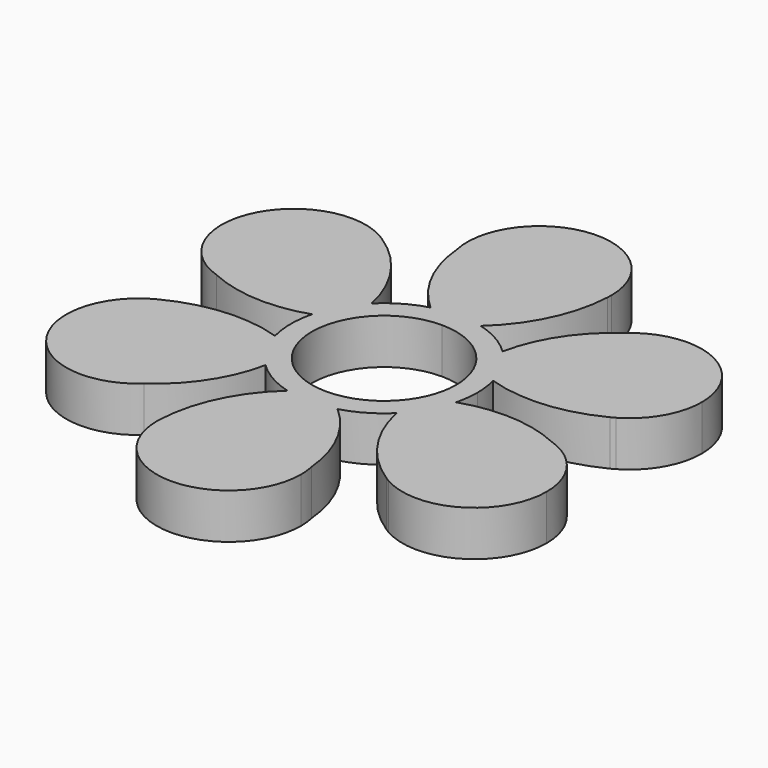
from build123d import *

# Parameters (mm, degrees)
F1_DEPTH = 7


with BuildPart() as f1:
    # F0 (on Top) → F1 (new body)
    with BuildSketch(Plane.XY):
        with BuildLine():
            ThreePointArc((9.6561832522, 5.575), (10.7700729631, 2.8858323529), (11.15, 0))
            ThreePointArc((11.15, 0), (10.7700729631, -2.8858323529), (9.6561832522, -5.575))
            ThreePointArc((9.6561832522, -5.575), (11.7583450993, -4.4386309052), (13.9764549062, -3.549581955))
            ThreePointArc((13.9764549062, -3.549581955), (14.308798821, -1.7886028346), (14.4201533903, 0))
            ThreePointArc((14.4201533903, 0), (14.3024193489, 1.8389194019), (13.9511397154, 3.6478109107))
            ThreePointArc((13.9511397154, 3.6478109107), (11.7522539794, 4.4968380812), (9.6561832522, 5.575))
        make_face()
        with BuildLine():
            ThreePointArc((10.0622555989, 10.3291740261), (9.7231396716, 7.9637101099), (9.6561832522, 5.575))
            ThreePointArc((9.6561832522, 5.575), (11.7522539794, 4.4968380812), (13.9511397154, 3.6478109107))
            ThreePointArc((13.9511397154, 3.6478109107), (12.4627822697, 7.2539562928), (10.0622555989, 10.3291740261))
        make_face()
        with BuildLine():
            ThreePointArc((0, 11.15), (5.575, 9.6561832522), (9.6561832522, 5.575))
            ThreePointArc((9.6561832522, 5.575), (9.7231396716, 7.9637101099), (10.0622555989, 10.3291740261))
            ThreePointArc((10.0622555989, 10.3291740261), (7.1661079009, 12.5135015624), (3.8164729409, 13.9059468606))
            ThreePointArc((3.8164729409, 13.9059468606), (1.9817509747, 12.4261695385), (0, 11.15))
        make_face()
        with BuildLine():
            ThreePointArc((10.1346667746, -10.25813595), (9.7705030047, -7.9293314573), (9.6561832522, -5.575))
            ThreePointArc((9.6561832522, -5.575), (5.575, -9.6561832522), (0, -11.15))
            ThreePointArc((0, -11.15), (2.0352054277, -12.4023410151), (3.9141993072, -13.8787559811))
            ThreePointArc((3.9141993072, -13.8787559811), (7.2539562928, -12.4627822697), (10.1346667746, -10.25813595))
        make_face()
        with BuildLine():
            ThreePointArc((13.9764549062, -3.549581955), (11.7583450993, -4.4386309052), (9.6561832522, -5.575))
            ThreePointArc((9.6561832522, -5.575), (9.7705030047, -7.9293314573), (10.1346667746, -10.25813595))
            ThreePointArc((10.1346667746, -10.25813595), (12.5135015624, -7.1661079009), (13.9764549062, -3.549581955))
        make_face()
        with BuildLine():
            ThreePointArc((-3.9141993072, 13.8787559811), (-2.0352054277, 12.4023410151), (0, 11.15))
            ThreePointArc((0, 11.15), (1.9817509747, 12.4261695385), (3.8164729409, 13.9059468606))
            ThreePointArc((3.8164729409, 13.9059468606), (-0.0507192927, 14.4200641938), (-3.9141993072, 13.8787559811))
        make_face()
        with BuildLine():
            ThreePointArc((-9.6561832522, 5.575), (-5.575, 9.6561832522), (0, 11.15))
            ThreePointArc((0, 11.15), (-2.0352054277, 12.4023410151), (-3.9141993072, 13.8787559811))
            ThreePointArc((-3.9141993072, 13.8787559811), (-7.2539562928, 12.4627822697), (-10.1346667746, 10.25813595))
            ThreePointArc((-10.1346667746, 10.25813595), (-9.7705030047, 7.9293314573), (-9.6561832522, 5.575))
        make_face()
        with BuildLine():
            ThreePointArc((10.0622555989, 10.3291740261), (12.4627822697, 7.2539562928), (13.9511397154, 3.6478109107))
            ThreePointArc((13.9511397154, 3.6478109107), (22.5646732179, 2.6278419368), (30.9082990141, 4.9979062145))
            ThreePointArc((30.9082990141, 4.9979062145), (16.7608876912, 8.7297196525), (18.4895315816, 23.2585691931))
            ThreePointArc((18.4895315816, 23.2585691931), (13.039109397, 17.5999976189), (10.0622555989, 10.3291740261))
        make_face()
        with BuildLine():
            ThreePointArc((-3.8164729409, -13.9059468606), (-1.9817509747, -12.4261695385), (0, -11.15))
            ThreePointArc((0, -11.15), (-5.575, -9.6561832522), (-9.6561832522, -5.575))
            ThreePointArc((-9.6561832522, -5.575), (-9.7231396716, -7.9637101099), (-10.0622555989, -10.3291740261))
            ThreePointArc((-10.0622555989, -10.3291740261), (-7.1661079009, -12.5135015624), (-3.8164729409, -13.9059468606))
        make_face()
        with BuildLine():
            ThreePointArc((3.9141993072, -13.8787559811), (2.0352054277, -12.4023410151), (0, -11.15))
            ThreePointArc((0, -11.15), (-1.9817509747, -12.4261695385), (-3.8164729409, -13.9059468606))
            ThreePointArc((-3.8164729409, -13.9059468606), (0.0507192927, -14.4200641938), (3.9141993072, -13.8787559811))
        make_face()
        with BuildLine():
            ThreePointArc((13.9764549062, -3.549581955), (12.5135015624, -7.1661079009), (10.1346667746, -10.25813595))
            ThreePointArc((10.1346667746, -10.25813595), (13.5581144833, -18.2276592665), (19.7824632545, -24.2684190267))
            ThreePointArc((19.7824632545, -24.2684190267), (15.9406028326, -10.1504947043), (29.3872775678, -4.3831194572))
            ThreePointArc((29.3872775678, -4.3831194572), (21.761599743, -2.4922011711), (13.9764549062, -3.549581955))
        make_face()
        with BuildLine():
            ThreePointArc((-13.9764549062, 3.549581955), (-11.7583450993, 4.4386309052), (-9.6561832522, 5.575))
            ThreePointArc((-9.6561832522, 5.575), (-9.7705030047, 7.9293314573), (-10.1346667746, 10.25813595))
            ThreePointArc((-10.1346667746, 10.25813595), (-12.5135015624, 7.1661079009), (-13.9764549062, 3.549581955))
        make_face()
        with BuildLine():
            ThreePointArc((-9.6561832522, -5.575), (-11.15, 0), (-9.6561832522, 5.575))
            ThreePointArc((-9.6561832522, 5.575), (-11.7583450993, 4.4386309052), (-13.9764549062, 3.549581955))
            ThreePointArc((-13.9764549062, 3.549581955), (-14.4200641938, -0.0507192927), (-13.9511397154, -3.6478109107))
            ThreePointArc((-13.9511397154, -3.6478109107), (-11.7522539794, -4.4968380812), (-9.6561832522, -5.575))
        make_face()
        with BuildLine():
            ThreePointArc((-3.9141993072, 13.8787559811), (-0.0507192927, 14.4200641938), (3.8164729409, 13.9059468606))
            ThreePointArc((3.8164729409, 13.9059468606), (9.0065587346, 20.8555012032), (11.1258357595, 29.2663252412))
            ThreePointArc((11.1258357595, 29.2663252412), (0.8202848586, 18.8802143568), (-10.8977459861, 27.6416886503))
            ThreePointArc((-10.8977459861, 27.6416886503), (-8.722490346, 20.0921987899), (-3.9141993072, 13.8787559811))
        make_face()
        with BuildLine():
            ThreePointArc((31.5557621135, 5.3438167478), (31.2334654211, 5.168175766), (30.9082990141, 4.9979062145))
            ThreePointArc((30.9082990141, 4.9979062145), (31.2348780107, 5.1655317307), (31.5557621135, 5.3438167478))
        make_face()
        with BuildLine():
            ThreePointArc((18.4895315816, 23.2585691931), (16.7608876912, 8.7297196525), (30.9082990141, 4.9979062145))
            ThreePointArc((30.9082990141, 4.9979062145), (31.2334654211, 5.168175766), (31.5557621135, 5.3438167478))
            ThreePointArc((31.5557621135, 5.3438167478), (35.6369453657, 9.425), (37.1307621135, 15))
            ThreePointArc((37.1307621135, 15), (30.497136742, 25.1943543305), (18.4895315816, 23.2585691931))
        make_face()
        with BuildLine():
            ThreePointArc((-10.0622555989, -10.3291740261), (-9.7231396716, -7.9637101099), (-9.6561832522, -5.575))
            ThreePointArc((-9.6561832522, -5.575), (-11.7522539794, -4.4968380812), (-13.9511397154, -3.6478109107))
            ThreePointArc((-13.9511397154, -3.6478109107), (-12.4627822697, -7.2539562928), (-10.0622555989, -10.3291740261))
        make_face()
        with BuildLine():
            ThreePointArc((3.9141993072, -13.8787559811), (0.0507192927, -14.4200641938), (-3.8164729409, -13.9059468606))
            ThreePointArc((-3.8164729409, -13.9059468606), (-9.0065587346, -20.8555012032), (-11.1258357595, -29.2663252412))
            ThreePointArc((-11.1258357595, -29.2663252412), (-0.8202848586, -18.8802143568), (10.8977459861, -27.6416886503))
            ThreePointArc((10.8977459861, -27.6416886503), (8.722490346, -20.0921987899), (3.9141993072, -13.8787559811))
        make_face()
        with BuildLine():
            ThreePointArc((20.4057621135, -24.6561832522), (20.0925042151, -24.4648866199), (19.7824632545, -24.2684190267))
            ThreePointArc((19.7824632545, -24.2684190267), (20.0909207082, -24.467431976), (20.4057621135, -24.6561832522))
        make_face()
        with BuildLine():
            ThreePointArc((29.3872775678, -4.3831194572), (15.9406028326, -10.1504947043), (19.7824632545, -24.2684190267))
            ThreePointArc((19.7824632545, -24.2684190267), (20.0925042151, -24.4648866199), (20.4057621135, -24.6561832522))
            ThreePointArc((20.4057621135, -24.6561832522), (31.5557621135, -24.6561832522), (37.1307621135, -15))
            ThreePointArc((37.1307621135, -15), (34.98923444, -8.4296174889), (29.3872775678, -4.3831194572))
        make_face()
        with BuildLine():
            ThreePointArc((-13.9764549062, 3.549581955), (-12.5135015624, 7.1661079009), (-10.1346667746, 10.25813595))
            ThreePointArc((-10.1346667746, 10.25813595), (-13.5581144833, 18.2276592665), (-19.7824632545, 24.2684190267))
            ThreePointArc((-19.7824632545, 24.2684190267), (-16.1462938443, 20.2541158972), (-14.8307621135, 15))
            ThreePointArc((-14.8307621135, 15), (-19.4103796024, 5.9915276735), (-29.3872775678, 4.3831194572))
            ThreePointArc((-29.3872775678, 4.3831194572), (-21.761599743, 2.4922011711), (-13.9764549062, 3.549581955))
        make_face()
        with BuildLine():
            ThreePointArc((11.15, 30), (11.140961206, 29.6330623859), (11.1258357595, 29.2663252412))
            ThreePointArc((11.1258357595, 29.2663252412), (11.1439573025, 29.6329637068), (11.15, 30))
        make_face()
        with BuildLine():
            ThreePointArc((-10.8977459861, 27.6416886503), (0.8202848586, 18.8802143568), (11.1258357595, 29.2663252412))
            ThreePointArc((11.1258357595, 29.2663252412), (11.140961206, 29.6330623859), (11.15, 30))
            ThreePointArc((11.15, 30), (-1.185882004, 41.0867571396), (-10.8977459861, 27.6416886503))
        make_face()
        with BuildLine():
            ThreePointArc((-10.0622555989, -10.3291740261), (-12.4627822697, -7.2539562928), (-13.9511397154, -3.6478109107))
            ThreePointArc((-13.9511397154, -3.6478109107), (-22.5646732179, -2.6278419368), (-30.9082990141, -4.9979062145))
            ThreePointArc((-30.9082990141, -4.9979062145), (-20.0909207082, -5.532568024), (-14.8307621135, -15))
            ThreePointArc((-14.8307621135, -15), (-15.7864077831, -19.5163746285), (-18.4895315816, -23.2585691931))
            ThreePointArc((-18.4895315816, -23.2585691931), (-13.039109397, -17.5999976189), (-10.0622555989, -10.3291740261))
        make_face()
        with BuildLine():
            ThreePointArc((-11.15, -30), (-11.140961206, -29.6330623859), (-11.1258357595, -29.2663252412))
            ThreePointArc((-11.1258357595, -29.2663252412), (-11.1439573025, -29.6329637068), (-11.15, -30))
        make_face()
        with BuildLine():
            ThreePointArc((10.8977459861, -27.6416886503), (-0.8202848586, -18.8802143568), (-11.1258357595, -29.2663252412))
            ThreePointArc((-11.1258357595, -29.2663252412), (-11.140961206, -29.6330623859), (-11.15, -30))
            ThreePointArc((-11.15, -30), (0, -41.15), (11.15, -30))
            ThreePointArc((11.15, -30), (11.0867571396, -28.814117996), (10.8977459861, -27.6416886503))
        make_face()
        with BuildLine():
            ThreePointArc((-20.4057621135, 24.6561832522), (-20.0925042151, 24.4648866199), (-19.7824632545, 24.2684190267))
            ThreePointArc((-19.7824632545, 24.2684190267), (-20.0909207082, 24.467431976), (-20.4057621135, 24.6561832522))
        make_face()
        with BuildLine():
            ThreePointArc((-14.8307621135, 15), (-16.1462938443, 20.2541158972), (-19.7824632545, 24.2684190267))
            ThreePointArc((-19.7824632545, 24.2684190267), (-20.0925042151, 24.4648866199), (-20.4057621135, 24.6561832522))
            ThreePointArc((-20.4057621135, 24.6561832522), (-36.175116444, 19.5163746285), (-29.3872775678, 4.3831194572))
            ThreePointArc((-29.3872775678, 4.3831194572), (-19.4103796024, 5.9915276735), (-14.8307621135, 15))
        make_face()
        with BuildLine():
            ThreePointArc((-31.5557621135, -5.3438167478), (-31.2334654211, -5.168175766), (-30.9082990141, -4.9979062145))
            ThreePointArc((-30.9082990141, -4.9979062145), (-31.2348780107, -5.1655317307), (-31.5557621135, -5.3438167478))
        make_face()
        with BuildLine():
            ThreePointArc((-14.8307621135, -15), (-20.0909207082, -5.532568024), (-30.9082990141, -4.9979062145))
            ThreePointArc((-30.9082990141, -4.9979062145), (-31.2334654211, -5.168175766), (-31.5557621135, -5.3438167478))
            ThreePointArc((-31.5557621135, -5.3438167478), (-34.98923444, -21.5703825111), (-18.4895315816, -23.2585691931))
            ThreePointArc((-18.4895315816, -23.2585691931), (-15.7864077831, -19.5163746285), (-14.8307621135, -15))
        make_face()
    extrude(amount=F1_DEPTH)


solid = f1.part
